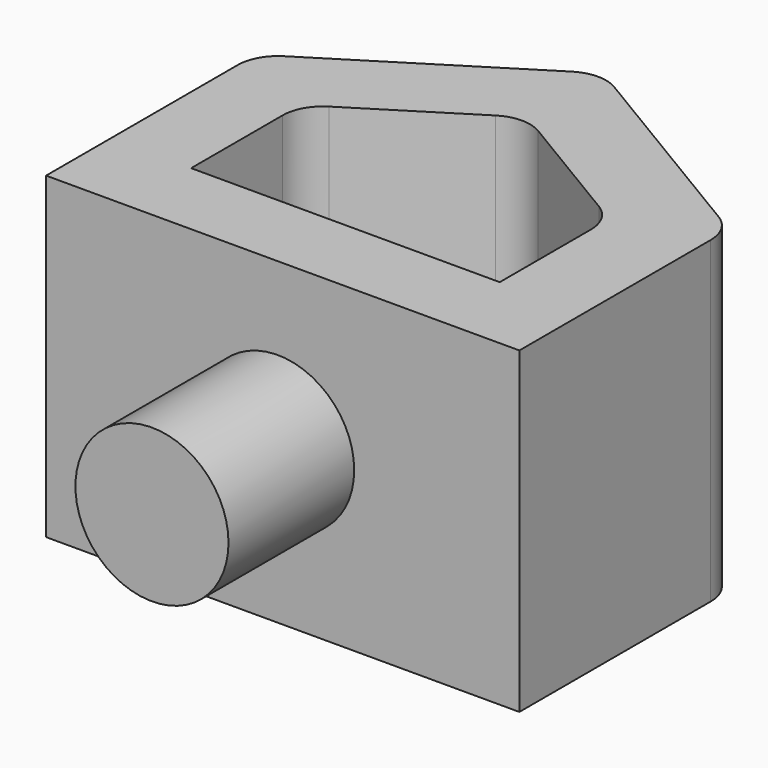
from build123d import *

# Parameters (mm, degrees)
F1_DEPTH = 3.95
F2_R     = 1.9
F3_DEPTH = 3.9
F4_R     = 1


with BuildPart() as f1:
    # F0 (on Top) → F1 (new body, symmetric)
    with BuildSketch(Plane.XY):
        Polygon((0, 2.0000000475), (0, 0), (6, 0), (6, 6.5), (0, 10.1), (0, 7.740125583), (3.9123329981, 5.3927257842), (3.9123329981, 2), align=None)
        Polygon((-5.7480431453, 0), (0, 0), (0, 2.0000000475), (-3.7480431453, 2), (-3.7480431453, 5.3927257842), (0, 7.740125583), (0, 10.1), (-5.7480431453, 6.5), align=None)
    extrude(amount=F1_DEPTH, both=True)

    # F2 (on face) → F3 (join)
    with BuildSketch(Plane.XZ):
        Circle(F2_R)
    extrude(amount=F3_DEPTH)

    # F4
    f4_edges = [f1.edges().sort_by_distance(p)[0] for p in [
        (0, 10.1, 0),
        (-5.748043, 6.5, 0),
        (6, 6.5, 0),
        (-3.748043, 5.392726, 0),
        (3.912333, 5.392726, 0),
        (0, 7.740126, 0),
    ]]
    fillet(f4_edges, radius=F4_R)


solid = f1.part
